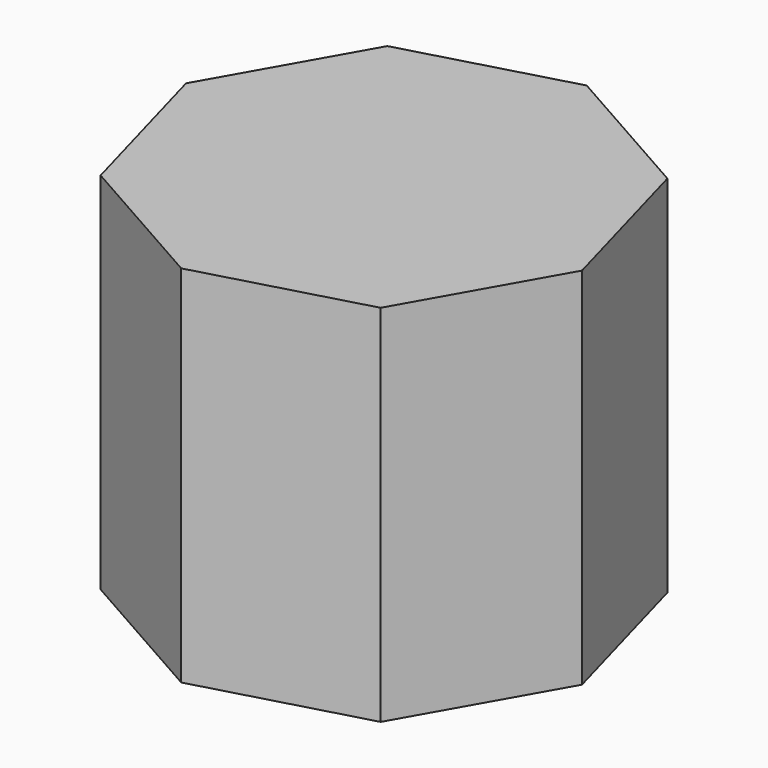
from build123d import *

# Parameters (mm, degrees)
F1_DEPTH = 83.312
F3_DEPTH = 80.772


with BuildPart() as f1:
    # F0 (on Top) → F1 (new body)
    with BuildSketch(Plane.XY):
        Polygon((-31.120799, 39.861828), (-50.192297, 6.180841), (-39.861828, -31.120799), (-6.180841, -50.192297), (31.120799, -39.861828), (50.192297, -6.180841), (39.861828, 31.120799), (6.180841, 50.192297), align=None)
    extrude(amount=F1_DEPTH)

    # F2 (on face) → F3 (cut)
    with BuildSketch(Plane(origin=(0, 0, 0), x_dir=(1, 0, 0), z_dir=(0, 0, -1))):
        Polygon((-4.10583, 45.089582), (-34.786409, 28.979889), (-45.089582, -4.10583), (-28.979889, -34.786409), (4.10583, -45.089582), (34.786409, -28.979889), (45.089582, 4.10583), (28.979889, 34.786409), align=None)
    extrude(amount=-F3_DEPTH, mode=Mode.SUBTRACT)


solid = f1.part
